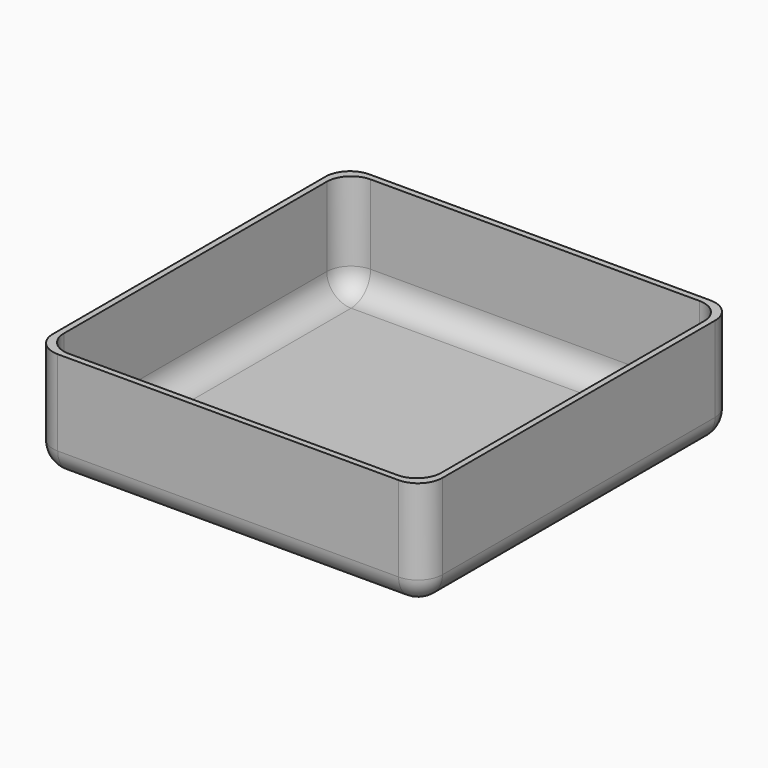
from build123d import *

# Parameters (mm, degrees)
F2_W     = 64
F2_H     = 64
F2_W_2   = 62
F2_H_2   = 62
F3_DEPTH = 17
F4_DEPTH = 1
F5_R     = 4


with BuildPart() as f3:
    # F2 (on Top) → F3 (new body)
    with BuildSketch(Plane.XY):
        with Locations((31, -31)):
            Rectangle(F2_W, F2_H)
        with Locations((31, -31)):
            Rectangle(F2_W_2, F2_H_2, mode=Mode.SUBTRACT)
    extrude(amount=F3_DEPTH)

    # F2 (on Top) → F4 (join)
    with BuildSketch(Plane.XY):
        with Locations((31, -31)):
            Rectangle(F2_W, F2_H)
        with Locations((31, -31)):
            Rectangle(F2_W_2, F2_H_2, mode=Mode.SUBTRACT)
        with Locations((31, -31)):
            Rectangle(F2_W_2, F2_H_2)
    extrude(amount=-F4_DEPTH)

    # F5
    f5_edges = [f3.edges().sort_by_distance(p)[0] for p in [
        (0, -31, 0),
        (31, 0, 0),
        (62, -31, 0),
        (31, -62, 0),
        (31, 1, -1),
        (-1, -31, -1),
        (31, -63, -1),
        (63, -31, -1),
        (0, -62, 8.5),
        (0, 0, 8.5),
        (62, 0, 8.5),
        (62, -62, 8.5),
        (-1, 1, 8),
        (63, 1, 8),
        (63, -63, 8),
        (-1, -63, 8),
    ]]
    fillet(f5_edges, radius=F5_R)


solid = f3.part
